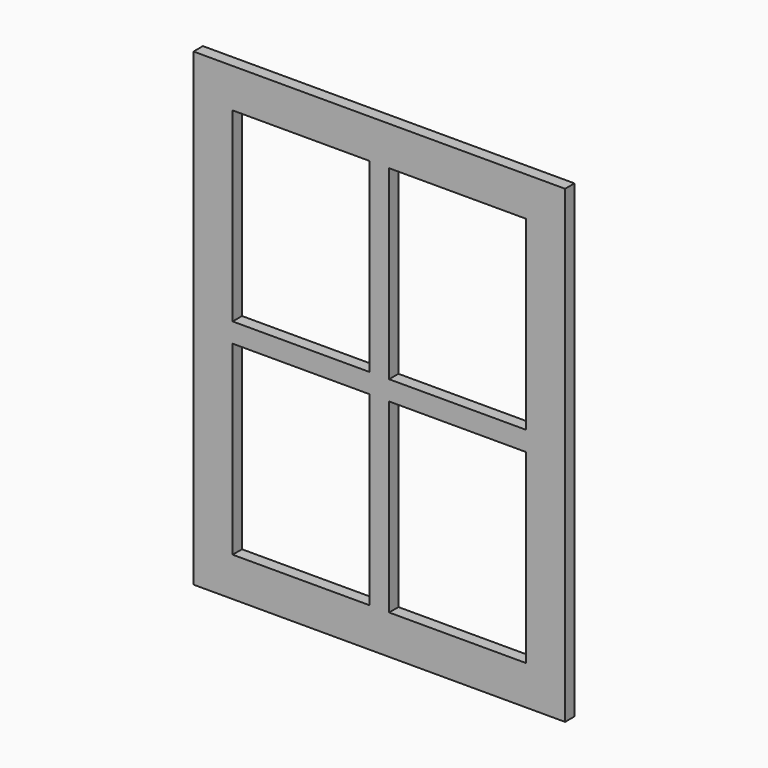
from build123d import *

# Parameters (mm, degrees)
F0_W     = 95
F0_H     = 120
F0_W_2   = 5
F0_H_2   = 47.5
F0_W_3   = 35
F0_H_3   = 5
F1_DEPTH = 3


with BuildPart() as f1:
    # F0 (on Front) → F1 (new body)
    with BuildSketch(Plane.XZ):
        Rectangle(F0_W, F0_H)
        Polygon((37.5, -2.5), (37.5, -50), (2.5, -50), (-2.5, -50), (-37.5, -50), (-37.5, -2.5), (-37.5, 2.5), (-37.5, 50), (-2.5, 50), (2.5, 50), (37.5, 50), (37.5, 2.5), align=None, mode=Mode.SUBTRACT)
        with Locations((0, 26.25)):
            Rectangle(F0_W_2, F0_H_2)
        with Locations((0, -26.25)):
            Rectangle(F0_W_2, F0_H_2)
        with Locations((20, 0)):
            Rectangle(F0_W_3, F0_H_3)
        Rectangle(F0_W_2, F0_H_3)
        with Locations((-20, 0)):
            Rectangle(F0_W_3, F0_H_3)
    extrude(amount=F1_DEPTH)


solid = f1.part
